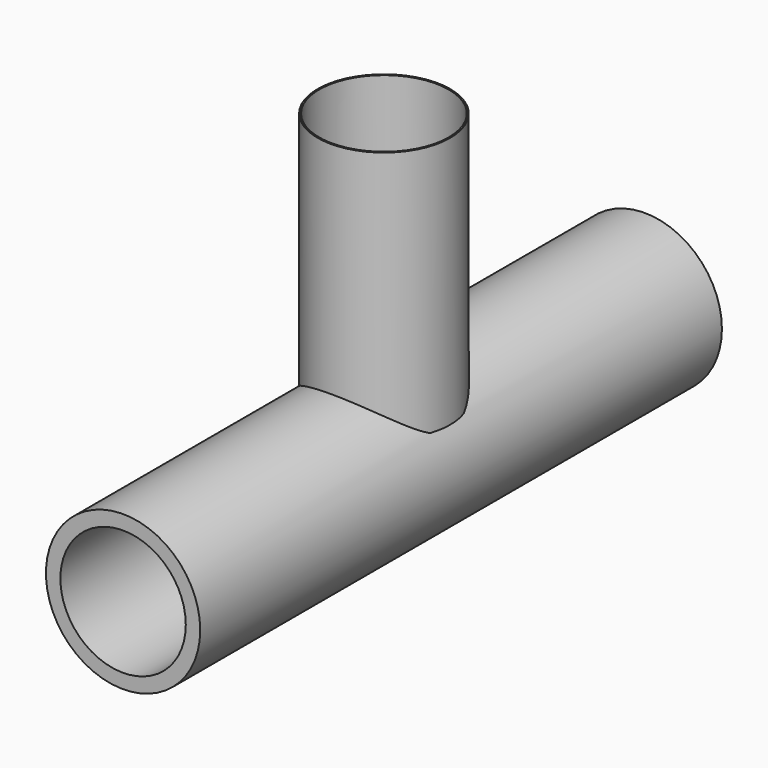
from build123d import *

# Parameters (mm, degrees)
F0_R     = 13.579833
F1_DEPTH = 57.404
F2_T     = -2.54
F4_R     = 11.66888
F5_DEPTH = 44.45
F6_R     = 11.401717
F7_DEPTH = 42.672


with BuildPart() as f1:
    # F0 (on Front) → F1 (new body, symmetric)
    with BuildSketch(Plane.XZ):
        Circle(F0_R)
    extrude(amount=F1_DEPTH, both=True)

    # F2
    f2_openings = [f1.faces().sort_by_distance(p)[0] for p in [
        (0, -57.404, 0),
        (0, 57.404, 0),
    ]]
    offset(amount=F2_T, openings=f2_openings)

    # F4 (on offset) → F5 (join)
    with BuildSketch(Plane.XY.offset(7.874)):
        Circle(F4_R)
    extrude(amount=F5_DEPTH)

    # F6 (on face) → F7 (cut)
    with BuildSketch(Plane.XY.offset(52.324)):
        Circle(F6_R)
    extrude(amount=-F7_DEPTH, mode=Mode.SUBTRACT)


solid = f1.part
